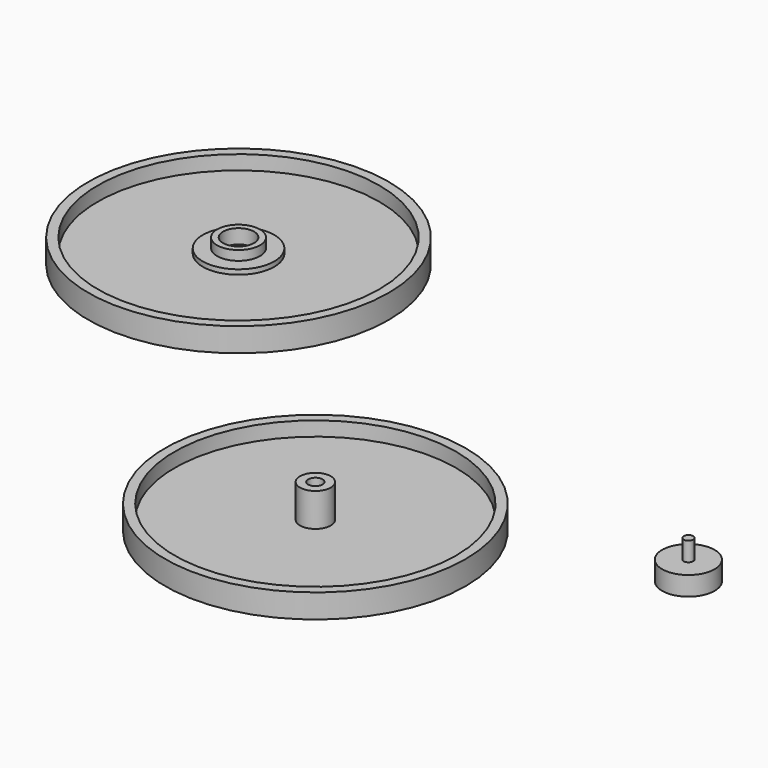
from build123d import *

# Parameters (mm, degrees)
F0_R      = 31.5
F1_DEPTH  = 2
F2_R      = 3.225
F3_DEPTH  = 7
F4_R      = 31.5
F4_R_2    = 29.5
F5_DEPTH  = 3
F6_R      = 1.5
F7_DEPTH  = 8
F8_R      = 31.5
F9_DEPTH  = 2
F10_R     = 31.5
F10_R_2   = 29.5
F11_DEPTH = 3
F12_R     = 3.25
F13_DEPTH = 25
F14_R     = 7.5
F14_R_2   = 3.25
F15_DEPTH = 1
F16_R     = 4.5
F16_R_2   = 3.25
F17_DEPTH = 2
F18_R     = 6
F18_R_2   = 3.25
F19_DEPTH = 2
F20_R     = 5.5
F21_DEPTH = 4
F22_R     = 1
F23_DEPTH = 4


with BuildPart() as f1:
    # F0 (on Top) → F1 (new body)
    with BuildSketch(Plane.XY):
        Circle(F0_R)
        Circle(F0_R)
    extrude(amount=F1_DEPTH)

    # F2 (on face) → F3 (join)
    with BuildSketch(Plane.XY.offset(2)):
        Circle(F2_R)
    extrude(amount=F3_DEPTH)

    # F4 (on face) → F5 (join)
    with BuildSketch(Plane.XY.offset(2)):
        Circle(F4_R)
        Circle(F4_R_2, mode=Mode.SUBTRACT)
    extrude(amount=F5_DEPTH)

    # F6 (on face) → F7 (cut)
    with BuildSketch(Plane.XY.offset(9)):
        Circle(F6_R)
    extrude(amount=-F7_DEPTH, mode=Mode.SUBTRACT)


with BuildPart() as f9:
    # F8 (on Top) → F9 (new body)
    with BuildSketch(Plane.XY):
        with Locations((-68.7771439552, 65.8418387175)):
            Circle(F8_R)
        with Locations((-68.7771439552, 65.8418387175)):
            Circle(F8_R)
    extrude(amount=F9_DEPTH)

    # F10 (on face) → F11 (join)
    with BuildSketch(Plane.XY.offset(2)):
        with Locations((-68.7771439552, 65.8418387175)):
            Circle(F10_R)
        with Locations((-68.7771439552, 65.8418387175)):
            Circle(F10_R_2, mode=Mode.SUBTRACT)
    extrude(amount=F11_DEPTH)

    # F12 (on face) → F13 (cut)
    with BuildSketch(Plane.XY.offset(2)):
        with Locations((-68.7771439552, 65.8418387175)):
            Circle(F12_R)
    extrude(amount=-F13_DEPTH, mode=Mode.SUBTRACT)

    # F14 (on face) → F15 (join)
    with BuildSketch(Plane.XY.offset(2)):
        with Locations((-68.7771439552, 65.8418387175)):
            Circle(F14_R)
        with Locations((-68.7771439552, 65.8418387175)):
            Circle(F14_R_2, mode=Mode.SUBTRACT)
    extrude(amount=F15_DEPTH)

    # F16 (on face) → F17 (join)
    with BuildSketch(Plane.XY.offset(3)):
        with Locations((-68.7771439552, 65.8418387175)):
            Circle(F16_R)
        with Locations((-68.7771439552, 65.8418387175)):
            Circle(F16_R_2, mode=Mode.SUBTRACT)
    extrude(amount=F17_DEPTH)

    # F18 (on face) → F19 (cut)
    with BuildSketch(Plane(origin=(0, 0, 0), x_dir=(1, 0, 0), z_dir=(0, 0, -1))):
        with Locations((-68.7771439552, -65.8418387175)):
            Circle(F18_R)
        with Locations((-68.7771439552, -65.8418387175)):
            Circle(F18_R_2, mode=Mode.SUBTRACT)
    extrude(amount=-F19_DEPTH, mode=Mode.SUBTRACT)


with BuildPart() as f21:
    # F20 (on Top) → F21 (new body)
    with BuildSketch(Plane.XY):
        with Locations((58.8601864874, 24.157717824)):
            Circle(F20_R)
    extrude(amount=F21_DEPTH)

    # F22 (on face) → F23 (join)
    with BuildSketch(Plane.XY.offset(4)):
        with Locations((58.8601864874, 24.157717824)):
            Circle(F22_R)
    extrude(amount=F23_DEPTH)


solid = Compound([f1.part, f9.part, f21.part])
